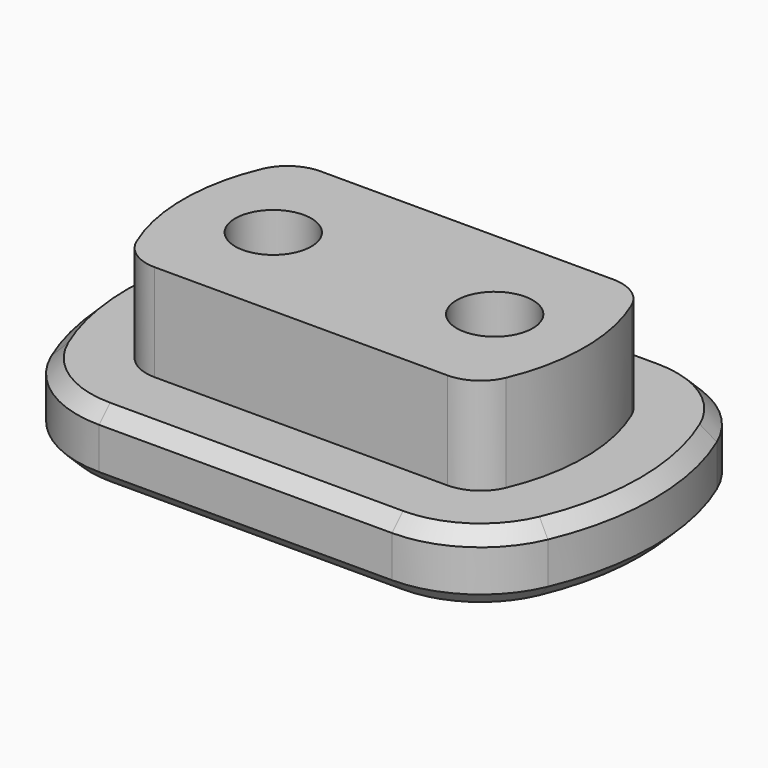
from build123d import *

# Parameters (mm, degrees)
F1_DEPTH       = 7
F3_DEPTH       = 5
F5_D           = 5.5
F5_CSINK_D     = 11.2
F5_CSINK_ANGLE = 90
F6_R           = 8
F7_R           = 3
F8_SIZE        = 1


with BuildPart() as f1:
    # F0 (on Top) → F1 (new body)
    with BuildSketch(Plane.XY):
        with BuildLine():
            Line((12.409673646, 7.5), (-12.409673646, 7.5))
            ThreePointArc((-12.409673646, 7.5), (-14.5, 0), (-12.409673646, -7.5))
            Line((-12.409673646, -7.5), (12.409673646, -7.5))
            ThreePointArc((12.409673646, -7.5), (14.5, 0), (12.409673646, 7.5))
        make_face()
    extrude(amount=F1_DEPTH)

    # F2 (on face) → F3 (join)
    with BuildSketch(Plane(origin=(0, 0, 0), x_dir=(1, 0, 0), z_dir=(0, 0, -1))):
        with BuildLine():
            Line((14.9666296342, 12.5000001863), (-14.9666296342, 12.5000001863))
            ThreePointArc((-14.9666296342, 12.5000001863), (-19.5000001863, 0), (-14.9666296342, -12.5000001863))
            Line((-14.9666296342, -12.5000001863), (14.9666296342, -12.5000001863))
            ThreePointArc((14.9666296342, -12.5000001863), (19.5000001863, 0), (14.9666296342, 12.5000001863))
        make_face()
        with BuildLine():
            Line((-12.409673646, 7.5), (12.409673646, 7.5))
            ThreePointArc((12.409673646, 7.5), (14.5, 0), (12.409673646, -7.5))
            Line((12.409673646, -7.5), (-12.409673646, -7.5))
            ThreePointArc((-12.409673646, -7.5), (-14.5, 0), (-12.409673646, 7.5))
        make_face(mode=Mode.SUBTRACT)
        with BuildLine():
            ThreePointArc((12.409673646, -7.5), (14.5, 0), (12.409673646, 7.5))
            Line((12.409673646, 7.5), (-12.409673646, 7.5))
            ThreePointArc((-12.409673646, 7.5), (-14.5, 0), (-12.409673646, -7.5))
            Line((-12.409673646, -7.5), (12.409673646, -7.5))
        make_face()
    extrude(amount=F3_DEPTH)

    # F5 (through all)
    with Locations(Plane(origin=(0, 0, -5), x_dir=(1, 0, 0), z_dir=(0, 0, -1))):
        with Locations((-8, 0), (8, 0)):
            CounterSinkHole(F5_D / 2, F5_CSINK_D / 2, counter_sink_angle=F5_CSINK_ANGLE)

    # F6
    f6_edges = [f1.edges().sort_by_distance(p)[0] for p in [
        (14.96663, -12.5, -2.5),
        (14.96663, 12.5, -2.5),
        (-14.96663, 12.5, -2.5),
        (-14.96663, -12.5, -2.5),
    ]]
    fillet(f6_edges, radius=F6_R)

    # F7
    f7_edges = [f1.edges().sort_by_distance(p)[0] for p in [
        (12.409674, -7.5, 3.5),
        (12.409674, 7.5, 3.5),
        (-12.409674, 7.5, 3.5),
        (-12.409674, -7.5, 3.5),
    ]]
    fillet(f7_edges, radius=F7_R)

    # F8
    f8_edges = [f1.edges().sort_by_distance(p)[0] for p in [
        (0, -12.5, -5),
        (-19.5, 0, -5),
        (0, 12.5, -5),
        (19.5, 0, -5),
        (19.5, 0, 0),
        (0, -12.5, 0),
        (-19.5, 0, 0),
        (0, 12.5, 0),
    ]]
    chamfer(f8_edges, length=F8_SIZE)


solid = f1.part
